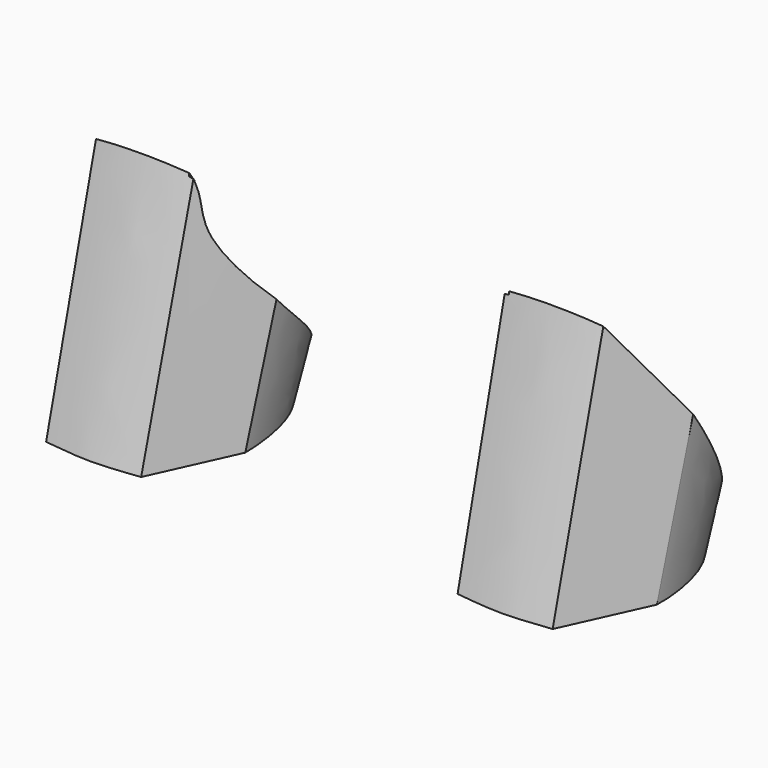
from build123d import *

# Parameters (mm, degrees)
F9_DEPTH = 26.924


with BuildPart() as f3:
    # F0 (on Top) → F3 section 0
    with BuildSketch(Plane.XY):
        with BuildLine():
            add(Edge.make_bspline(
                [(-17.2318438232, -17.0410163701), (-14.4505438232, -17.3762887716), (-9.2308438232, -18.0468335748), (-4.0111438232, -17.3762887716), (-1.2298438232, -17.0410163701)],
                knots=[0, 0, 0, 0, 0.5, 1, 1, 1, 1], degree=3))
            Line((-1.2298438232, -17.0410163701), (5.1201561768, -3.0710163701))
            add(Edge.make_bspline(
                [(-23.5818438232, -3.0710163701), (-23.739094541, -0.365056948), (-22.6088271258, 11.9545659781), (-9.2494721641, 21.012276346), (4.221704481, 12.0539108059), (5.1280701966, -0.597213455), (5.1201561768, -3.0710163701)],
                knots=[0, 0, 0, 0, 0.2501731306, 0.5, 0.7498268694, 1, 1, 1, 1], degree=3))
            Line((-23.5818438232, -3.0710163701), (-17.2318438232, -17.0410163701))
        make_face()
    # F2 (on line) → F3 section 1
    with BuildSketch(Plane(origin=(0, 14.7273180684, 10.3121791291), x_dir=(-1, 0, 0), z_dir=(0, 0.8191520443, 0.5735764364))):
        with BuildLine():
            Line((0.7867354634, 36.9411537644), (-5.8172645366, 18.3991537644))
            add(Edge.make_bspline(
                [(-5.8172645366, 18.3991537644), (-5.8172645366, 12.5643463727), (-3.7117618737, -3.0834761352), (9.2137705416, -11.2720218157), (21.6924461149, -3.0168785507), (23.9007354634, 12.5643463727), (23.9007354634, 18.3991537644)],
                knots=[0, 0, 0, 0, 0.2824138503, 0.5010306901, 0.7175861497, 1, 1, 1, 1], degree=3))
            Line((23.9007354634, 18.3991537644), (17.2967354634, 36.9411537644))
            add(Edge.make_bspline(
                [(0.7867354634, 36.9411537644), (3.9652762833, 37.5130314247), (8.7332178938, 37.8829722726), (14.3212476441, 37.5340772733), (17.2967354634, 36.9411537644)],
                knots=[0, 0, 0, 0, 0.4954896958, 1, 1, 1, 1], degree=3))
        make_face()
    loft()

    # F4 (on Top) → F6 section 0
    with BuildSketch(Plane.XY):
        with BuildLine():
            Line((-21.8038438232, -3.7822163701), (-16.4698438232, -15.5170163701))
            add(Edge.make_bspline(
                [(-16.4698438232, -15.5170163701), (-14.1050599772, -15.8301115392), (-9.3986568944, -16.2305407119), (-4.6395059533, -15.8344175103), (-1.9918438232, -15.5170163701)],
                knots=[0, 0, 0, 0, 0.4921229468, 1, 1, 1, 1], degree=3))
            Line((-1.9918438232, -15.5170163701), (3.3421561768, -3.7822163701))
            add(Edge.make_bspline(
                [(-21.8038438232, -3.7822163701), (-21.4931708929, -0.037470309), (-21.2885406673, 9.6626340155), (-9.2080117476, 19.5288708791), (2.7343327321, 9.4477169794), (3.2213539996, 0.4783610786), (3.3421561768, -3.7822163701)],
                knots=[0, 0, 0, 0, 0.2532208785, 0.5, 0.7467791215, 1, 1, 1, 1], degree=3))
        make_face()
    # F5 (on line) → F6 section 1
    with BuildSketch(Plane(origin=(0, 14.7273180684, 10.3121791291), x_dir=(-1, 0, 0), z_dir=(0, 0.8191520443, 0.5735764364))):
        with BuildLine():
            Line((22.3767354634, 20.8848653279), (17.2913176641, 35.1631537644))
            add(Edge.make_bspline(
                [(17.2913176641, 35.1631537644), (14.5265273432, 35.5039973924), (8.8343900935, 36.3654533862), (3.7333560275, 35.4674586455), (1.0461532627, 35.1631537644)],
                knots=[0, 0, 0, 0, 0.5084885362, 1, 1, 1, 1], degree=3))
            Line((1.0461532627, 35.1631537644), (-4.0392645366, 20.8848653279))
            add(Edge.make_bspline(
                [(22.3767354634, 20.8848653279), (22.9848253963, 15.8104892947), (20.0409746065, -1.6660183303), (9.2621321012, -9.292251283), (-2.2852094296, -1.2917615595), (-4.2869037468, 14.2560549708), (-4.0392645366, 20.8848653279)],
                knots=[0, 0, 0, 0, 0.2926229093, 0.4990946957, 0.7077133178, 1, 1, 1, 1], degree=3))
        make_face()
    loft(mode=Mode.SUBTRACT)

    # F8 (on offset) → F9 (cut)
    with BuildSketch(Plane.YZ.offset(25.4)):
        with BuildLine():
            add(Edge.make_bspline(
                [(4.1739970203, 25.3838835484), (4.4208796852, 25.0312985627), (5.217436514, 23.8936975153), (6.9298831226, 21.4480703046), (9.1712114563, 18.2471217124), (11.4528207433, 14.9886459569), (13.2361240313, 12.4418249208), (14.6268644003, 10.4556418349), (15.7667606293, 8.8277013077), (16.781809073, 7.378061896), (17.7394066922, 6.0104707649), (18.4721337498, 4.9640280781), (18.9121248119, 4.3356557197), (19.0263652277, 4.1725034976)],
                knots=[0, 0, 0, 0, 1.291280373, 4.1662633525, 8.9566786572, 13.0141904769, 16.0998565534, 18.2839618664, 20.2882359965, 22.0619018364, 23.5930107364, 25.2967974982, 25.8943137586, 25.8943137586, 25.8943137586, 25.8943137586], degree=3))
            Line((4.1739970203, 25.3838835484), (-6.4612572625, 40.5726007536))
            Line((-6.4612572625, 40.5726007536), (-6.8984349978, 41.1969552649))
            add(Edge.make_bspline(
                [(19.0263652277, 4.1725034976), (14.7374845788, 10.0950972506), (4.8928253189, 17.1212957223), (-6.4388278411, 31.3510426763), (-5.6003234099, 37.7186033053), (-6.8381553258, 40.6450309359), (-6.8984349978, 41.1969552649)],
                knots=[0.0194184477, 0.0194184477, 0.0194184477, 0.0194184477, 0.3551233547, 0.6733531725, 0.8631389398, 1, 1, 1, 1], degree=3))
        make_face()
    extrude(amount=-F9_DEPTH, mode=Mode.SUBTRACT)


with BuildPart() as f10_1:
    # F10: instance of F3
    add(f3.part.mirror(Plane.YZ.offset(25.4)))


solid = Compound([f3.part, f10_1.part])
